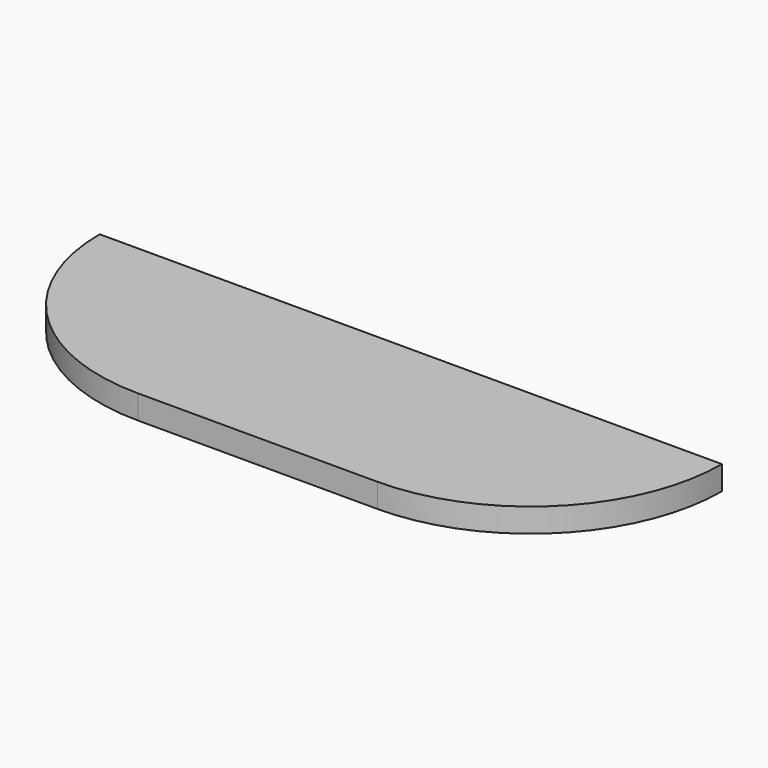
from build123d import *

# Parameters (mm, degrees)
F1_DEPTH = 38.1


with BuildPart() as f1:
    # F0 (on Top) → F1 (new body)
    with BuildSketch(Plane.XY):
        with BuildLine():
            Line((190.5, 0), (0, 0))
            Line((0, 0), (-190.5, 0))
            Line((-190.5, 0), (-495.066622, 0))
            ThreePointArc((-495.066622, 0), (-405.861124, -215.361124), (-190.5, -304.566622))
            Line((-190.5, -304.566622), (190.5, -304.547191))
            ThreePointArc((190.5, -304.547191), (405.847384, -215.347384), (495.047191, 0))
            Line((495.047191, 0), (190.5, 0))
        make_face()
        with BuildLine():
            Line((190.5, 0), (0, 0))
            Line((0, 0), (-190.5, 0))
            Line((-190.5, 0), (-495.066622, 0))
            ThreePointArc((-495.066622, 0), (-405.861124, -215.361124), (-190.5, -304.566622))
            Line((-190.5, -304.566622), (190.5, -304.547191))
            ThreePointArc((190.5, -304.547191), (405.847384, -215.347384), (495.047191, 0))
            Line((495.047191, 0), (190.5, 0))
        make_face()
    extrude(amount=F1_DEPTH)


solid = f1.part
